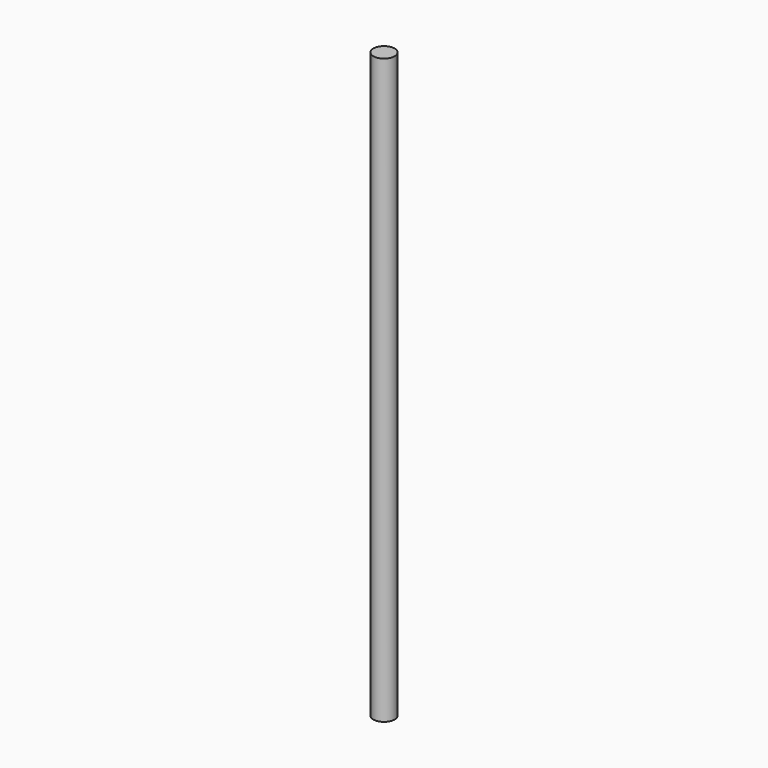
from build123d import *

# Parameters (mm, degrees)
CYLINDER_R     = 2
CYLINDER_DEPTH = 110


with BuildPart() as part:
    # Cylinder → Cylinder (join)
    with BuildSketch(Plane.XY):
        Circle(CYLINDER_R)
    extrude(amount=CYLINDER_DEPTH)


solid = part.part
